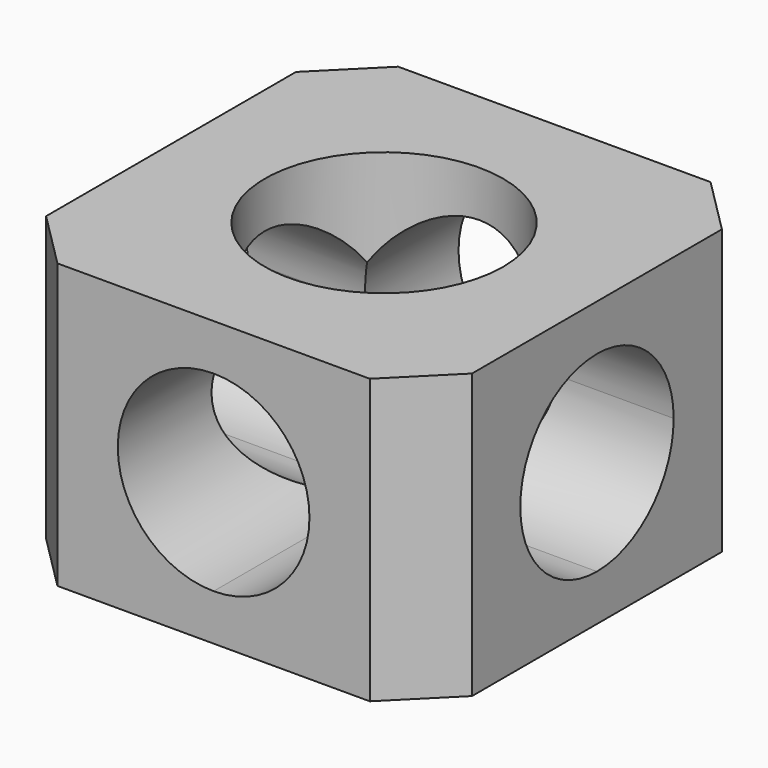
from build123d import *

# Parameters (mm, degrees)
F0_W     = 38.1
F0_H     = 38.1
F1_DEPTH = 25.4
F4_DEPTH = 76.2
F6_DEPTH = 76.2
F2_R     = 10.668
F7_DEPTH = 12.7
F8_SIZE  = 5.08


with BuildPart() as f1:
    # F0 (on Top) → F1 (new body)
    with BuildSketch(Plane.XY):
        Rectangle(F0_W, F0_H)
    extrude(amount=F1_DEPTH)

    # F3 (on face) → F4 (cut)
    with BuildSketch(Plane.XZ.offset(19.05)):
        with BuildLine():
            ThreePointArc((0, 21.2725), (-8.5725, 12.7), (0, 4.1275))
            Line((0, 4.1275), (0, 12.7))
            Line((0, 12.7), (0, 21.2725))
        make_face()
        with BuildLine():
            Line((0, 12.7), (0, 4.1275))
            ThreePointArc((0, 4.1275), (6.061673, 6.638327), (8.5725, 12.7))
            ThreePointArc((8.5725, 12.7), (6.061673, 18.761673), (0, 21.2725))
            Line((0, 21.2725), (0, 12.7))
        make_face()
    extrude(amount=-F4_DEPTH, mode=Mode.SUBTRACT)

    # F5 (on face) → F6 (cut)
    with BuildSketch(Plane.YZ.offset(19.05)):
        with BuildLine():
            ThreePointArc((0, 21.2725), (-8.5725, 12.7), (0, 4.1275))
            Line((0, 4.1275), (0, 12.7))
            Line((0, 12.7), (0, 21.2725))
        make_face()
        with BuildLine():
            Line((0, 12.7), (0, 4.1275))
            ThreePointArc((0, 4.1275), (6.061673, 6.638327), (8.5725, 12.7))
            ThreePointArc((8.5725, 12.7), (6.061673, 18.761673), (0, 21.2725))
            Line((0, 21.2725), (0, 12.7))
        make_face()
    extrude(amount=-F6_DEPTH, mode=Mode.SUBTRACT)

    # F2 (on face) → F7 (cut)
    with BuildSketch(Plane.XY.offset(25.4)):
        Circle(F2_R)
    extrude(amount=-F7_DEPTH, mode=Mode.SUBTRACT)

    # F8
    f8_edges = [f1.edges().sort_by_distance(p)[0] for p in [
        (-19.05, 19.05, 12.7),
        (19.05, 19.05, 12.7),
        (19.05, -19.05, 12.7),
        (-19.05, -19.05, 12.7),
    ]]
    chamfer(f8_edges, length=F8_SIZE)


solid = f1.part
